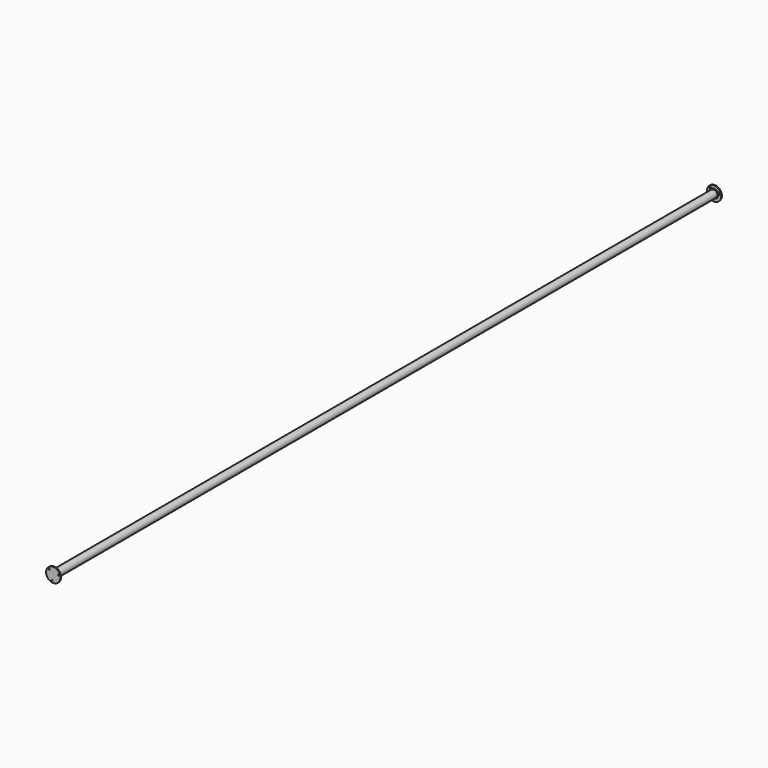
from build123d import *

# Parameters (mm, degrees)
F2_R     = 21
F2_R_2   = 19
F3_DEPTH = 4620
F4_R     = 40
F4_R_2   = 3.25
F4_R_3   = 21
F4_R_4   = 19
F5_DEPTH = 5
F6_START = -4615
F6_DEPTH = 5
F7_SIZE  = 2
F8_SIZE  = 3


with BuildPart() as f3:
    # F2 (on Front) → F3 (new body)
    with BuildSketch(Plane.XZ):
        Circle(F2_R)
        Circle(F2_R_2, mode=Mode.SUBTRACT)
    extrude(amount=F3_DEPTH)

    # F4 (on face) → F5 (join)
    with BuildSketch(Plane.XZ.offset(4620)):
        Circle(F4_R)
        with Locations((-7.3786178158, -29.5940196514)):
            Circle(F4_R_2, mode=Mode.SUBTRACT)
        with Locations((-21.9398639103, 21.187080299)):
            Circle(F4_R_2, mode=Mode.SUBTRACT)
        Circle(F4_R_3, mode=Mode.SUBTRACT)
        with Locations((29.3184817261, 8.4069393524)):
            Circle(F4_R_2, mode=Mode.SUBTRACT)
        Circle(F4_R_3)
        Circle(F4_R_4, mode=Mode.SUBTRACT)
        Circle(F4_R_4)
    extrude(amount=-F5_DEPTH)

    # F4 (on face) → F6 (join)
    with BuildSketch(Plane.XZ.offset(4620).offset(F6_START)):
        Circle(F4_R)
        with Locations((-7.3786178158, -29.5940196514)):
            Circle(F4_R_2, mode=Mode.SUBTRACT)
        with Locations((-21.9398639103, 21.187080299)):
            Circle(F4_R_2, mode=Mode.SUBTRACT)
        with Locations((29.3184817261, 8.4069393524)):
            Circle(F4_R_2, mode=Mode.SUBTRACT)
    extrude(amount=-F6_DEPTH)

    # F7
    f7_edges = [f3.edges().sort_by_distance(p)[0] for p in [
        (26.068482, -4615, 8.406939),
        (-25.189864, -4615, 21.18708),
        (-10.628618, -4615, -29.59402),
        (-10.628618, -5, -29.59402),
        (26.068482, -5, 8.406939),
        (-25.189864, -5, 21.18708),
    ]]
    chamfer(f7_edges, length=F7_SIZE)

    # F8
    f8_edges = [f3.edges().sort_by_distance(p)[0] for p in [
        (-21, -5, 0),
        (-21, -4615, 0),
    ]]
    chamfer(f8_edges, length=F8_SIZE)


solid = f3.part
